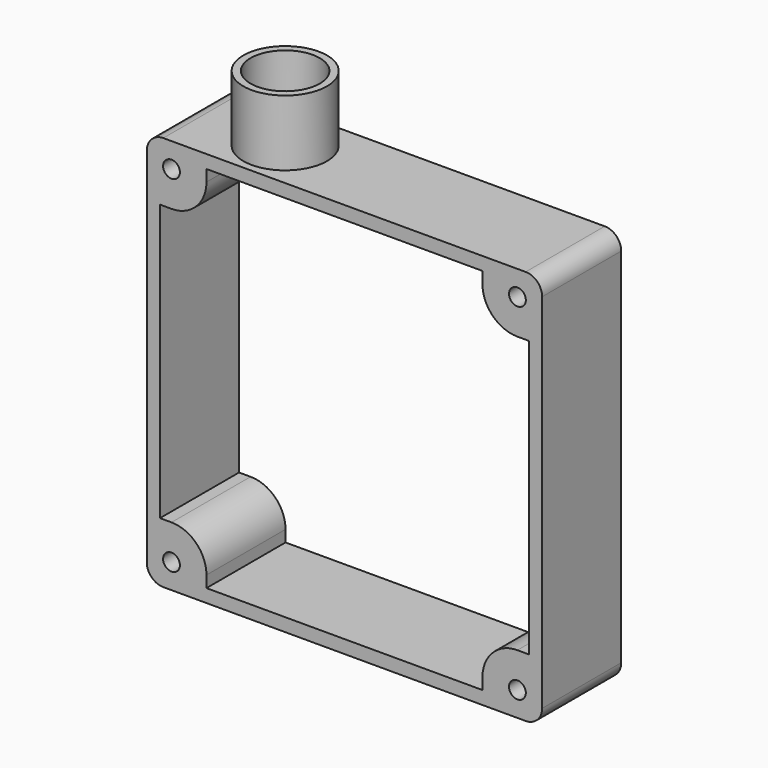
from build123d import *

# Parameters (mm, degrees)
F0_R     = 2.55
F1_DEPTH = 30
F2_R     = 12.7
F2_R_2   = 10.5
F3_DEPTH = 20
F4_DEPTH = 25


with BuildPart() as f1:
    # F0 (on Front) → F1 (new body)
    with BuildSketch(Plane.XZ):
        with BuildLine():
            ThreePointArc((0, 5), (1.4644660941, 1.4644660941), (5, 0))
            Line((5, 0), (115, 0))
            ThreePointArc((115, 0), (118.5355339059, 1.4644660941), (120, 5))
            Line((120, 5), (120, 115))
            ThreePointArc((120, 115), (118.5355339059, 118.5355339059), (115, 120))
            Line((115, 120), (5, 120))
            ThreePointArc((5, 120), (1.4644660941, 118.5355339059), (0, 115))
            Line((0, 115), (0, 5))
        make_face()
        with Locations((7.5, 7.5)):
            Circle(F0_R, mode=Mode.SUBTRACT)
        with Locations((112.5, 7.5)):
            Circle(F0_R, mode=Mode.SUBTRACT)
        with BuildLine():
            Line((4, 101.8933982822), (7.5, 101.8933982822))
            ThreePointArc((7.5, 101.8933982822), (15, 105), (18.1066017178, 112.5))
            Line((18.1066017178, 112.5), (18.1066017178, 116))
            Line((18.1066017178, 116), (101.8933982822, 116))
            Line((101.8933982822, 116), (101.8933982822, 112.5))
            ThreePointArc((101.8933982822, 112.5), (105, 105), (112.5, 101.8933982822))
            Line((112.5, 101.8933982822), (116, 101.8933982822))
            Line((116, 101.8933982822), (116, 18.1066017178))
            Line((116, 18.1066017178), (112.5, 18.1066017178))
            ThreePointArc((112.5, 18.1066017178), (105, 15), (101.8933982822, 7.5))
            Line((101.8933982822, 7.5), (101.8933982822, 4))
            Line((101.8933982822, 4), (18.1066017178, 4))
            Line((18.1066017178, 4), (18.1066017178, 7.5))
            ThreePointArc((18.1066017178, 7.5), (15, 15), (7.5, 18.1066017178))
            Line((7.5, 18.1066017178), (4, 18.1066017178))
            Line((4, 18.1066017178), (4, 101.8933982822))
        make_face(mode=Mode.SUBTRACT)
        with Locations((7.5, 112.5)):
            Circle(F0_R, mode=Mode.SUBTRACT)
        with Locations((112.5, 112.5)):
            Circle(F0_R, mode=Mode.SUBTRACT)
    extrude(amount=F1_DEPTH)

    # F2 (on face) → F3 (join)
    with BuildSketch(Plane.XY.offset(120)):
        with Locations((30, -15)):
            Circle(F2_R)
        with Locations((30, -15)):
            Circle(F2_R_2, mode=Mode.SUBTRACT)
    extrude(amount=F3_DEPTH)

    # F4 (cut): a face of the model
    f4_faces = [f1.faces().sort_by_distance(p)[0] for p in [
        (30, -15, 120),
    ]]
    extrude(f4_faces, amount=-F4_DEPTH, mode=Mode.SUBTRACT)


solid = f1.part
